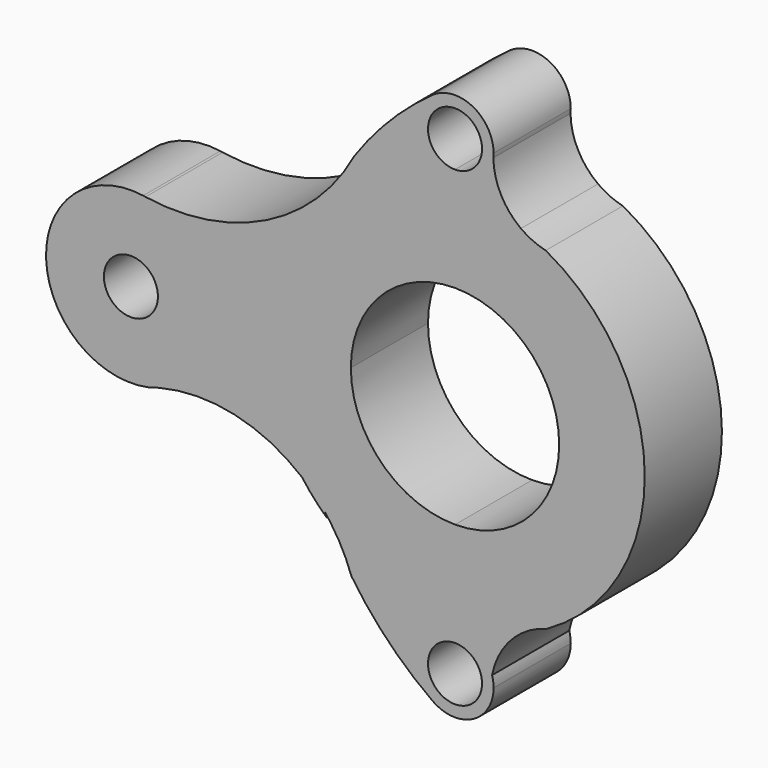
from build123d import *

# Parameters (mm, degrees)
F0_R     = 7
F1_DEPTH = 25


with BuildPart() as f1:
    # F0 (on Front) → F1 (new body)
    with BuildSketch(Plane.XZ):
        with BuildLine():
            ThreePointArc((-5.81798, -69.133333), (-9.521905, -57.94495), (0, -51))
            Line((0, -51), (0, -27))
            ThreePointArc((0, -27), (-19.091883, -19.091883), (-27, 0))
            ThreePointArc((-27, 0), (-19.091883, 19.091883), (0, 27))
            Line((0, 27), (0, 51))
            ThreePointArc((0, 51), (-9.521905, 57.94495), (-5.81798, 69.133333))
            ThreePointArc((-5.81798, 69.133333), (-16.84101, 59.72998), (-26.106848, 48.591108))
            ThreePointArc((-26.106848, 48.591108), (-48.902542, 26.552477), (-80.232319, 21.674976))
            ThreePointArc((-80.232319, 21.674976), (-80.531118, 21.72181), (-80.829642, 21.770366))
            ThreePointArc((-80.829642, 21.770366), (-105.987193, -0.750574), (-79.352407, -21.503485))
            ThreePointArc((-79.352407, -21.503485), (-77.954016, -21.075787), (-76.541554, -20.697139))
            ThreePointArc((-76.541554, -20.697139), (-57.089117, -20.498151), (-39.642733, -29.103996))
            ThreePointArc((-39.642733, -29.103996), (-36.623991, -32.821825), (-33.257949, -36.22841))
            ThreePointArc((-33.257949, -36.22841), (-33.547787, -35.606752), (-33.832599, -34.982777))
            ThreePointArc((-33.832599, -34.982777), (-32.965909, -36.090394), (-32.136875, -37.226471))
            ThreePointArc((-32.136875, -37.226471), (-29.133375, -42.187753), (-26.843599, -47.516192))
            ThreePointArc((-26.843599, -47.516192), (-17.297105, -59.264636), (-5.81798, -69.133333))
        make_face()
        with Locations((-84, 0)):
            Circle(F0_R, mode=Mode.SUBTRACT)
        with BuildLine():
            ThreePointArc((9.607953, -58.227415), (14.527655, -48.599443), (23.799178, -43.037054))
            ThreePointArc((23.799178, -43.037054), (49.178884, 0.161827), (23.515431, 43.192746))
            ThreePointArc((23.515431, 43.192746), (20.150075, 44.325205), (17.084167, 46.116376))
            ThreePointArc((17.084167, 46.116376), (11.892284, 52.166935), (9.938951, 59.896709))
            ThreePointArc((9.938951, 59.896709), (6.669599, 53.549064), (0, 51))
            Line((0, 51), (0, 27))
            ThreePointArc((0, 27), (19.091883, 19.091883), (27, 0))
            ThreePointArc((27, 0), (19.091883, -19.091883), (0, -27))
            Line((0, -27), (0, -51))
            ThreePointArc((0, -51), (6.011412, -53.008572), (9.607953, -58.227415))
        make_face()
        with BuildLine():
            ThreePointArc((10, -61), (9.901503, -59.599917), (9.607953, -58.227415))
            ThreePointArc((9.607953, -58.227415), (6.011412, -53.008572), (0, -51))
            ThreePointArc((0, -51), (-9.521905, -57.94495), (-5.81798, -69.133333))
            ThreePointArc((-5.81798, -69.133333), (4.572756, -69.89325), (10, -61))
        make_face()
        with BuildLine():
            ThreePointArc((7, -61), (-4.949747, -65.949747), (0, -54))
            ThreePointArc((0, -54), (4.949747, -56.050253), (7, -61))
        make_face(mode=Mode.SUBTRACT)
        with BuildLine():
            ThreePointArc((0, 51), (6.669599, 53.549064), (9.938951, 59.896709))
            ThreePointArc((9.938951, 59.896709), (9.984726, 60.447511), (10, 61))
            ThreePointArc((10, 61), (4.572756, 69.89325), (-5.81798, 69.133333))
            ThreePointArc((-5.81798, 69.133333), (-9.521905, 57.94495), (0, 51))
        make_face()
        with BuildLine():
            ThreePointArc((7, 61), (4.949747, 56.050253), (0, 54))
            ThreePointArc((0, 54), (-4.949747, 65.949747), (7, 61))
        make_face(mode=Mode.SUBTRACT)
    extrude(amount=F1_DEPTH)


solid = f1.part
